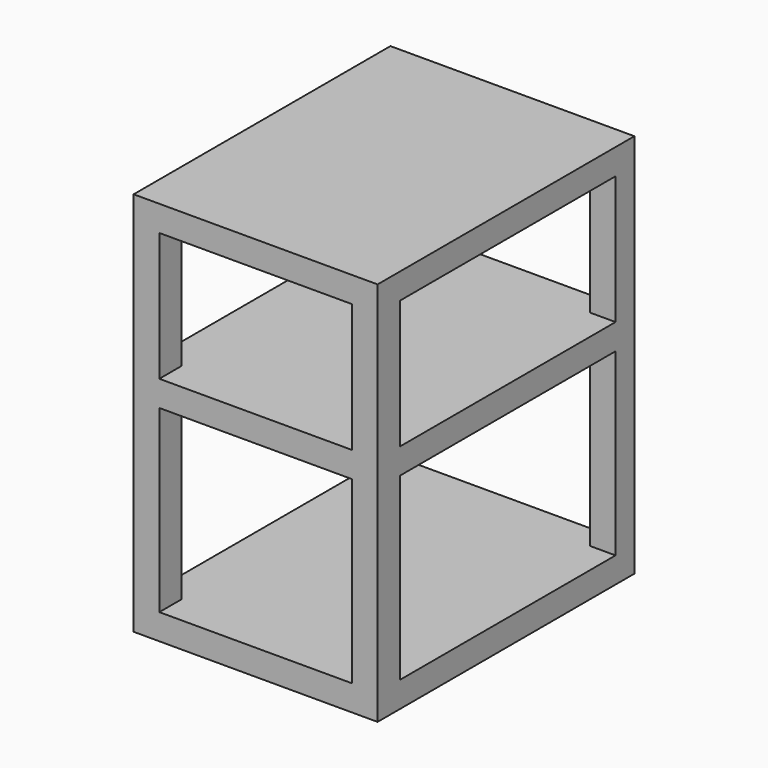
from build123d import *

# Parameters (mm, degrees)
F0_W     = 381
F0_H     = 50.8
F0_W_2   = 50.8
F1_DEPTH = 635
F2_W     = 533.4
F2_H     = 254
F2_H_2   = 355.6
F3_DEPTH = 482.601


with BuildPart() as f1:
    # F0 (on Front) → F1 (new body)
    with BuildSketch(Plane.XZ):
        with Locations((0, 355.6)):
            Rectangle(F0_W, F0_H)
        Polygon((241.3, 381), (190.5, 381), (190.5, 330.2), (190.5, 76.2), (241.3, 76.2), align=None)
        Polygon((241.3, 25.4), (190.5, 25.4), (190.5, -330.2), (190.5, -381), (241.3, -381), align=None)
        with Locations((0, -355.6)):
            Rectangle(F0_W, F0_H)
        Polygon((-190.5, 381), (-241.3, 381), (-241.3, 76.2), (-190.5, 76.2), (-190.5, 330.2), align=None)
        Polygon((-190.5, 25.4), (-241.3, 25.4), (-241.3, -381), (-190.5, -381), (-190.5, -330.2), align=None)
        with Locations((0, 50.8)):
            Rectangle(F0_W, F0_H)
        with Locations((-215.9, 50.8)):
            Rectangle(F0_W_2, F0_H)
        with Locations((215.9, 50.8)):
            Rectangle(F0_W_2, F0_H)
    extrude(amount=-F1_DEPTH)

    # F2 (on face) → F3 (cut, through all)
    with BuildSketch(Plane.YZ.offset(241.3)):
        with Locations((321.7956796288, 203.2)):
            Rectangle(F2_W, F2_H)
        with Locations((321.7956796288, -152.4)):
            Rectangle(F2_W, F2_H_2)
    extrude(amount=-F3_DEPTH, mode=Mode.SUBTRACT)


solid = f1.part
